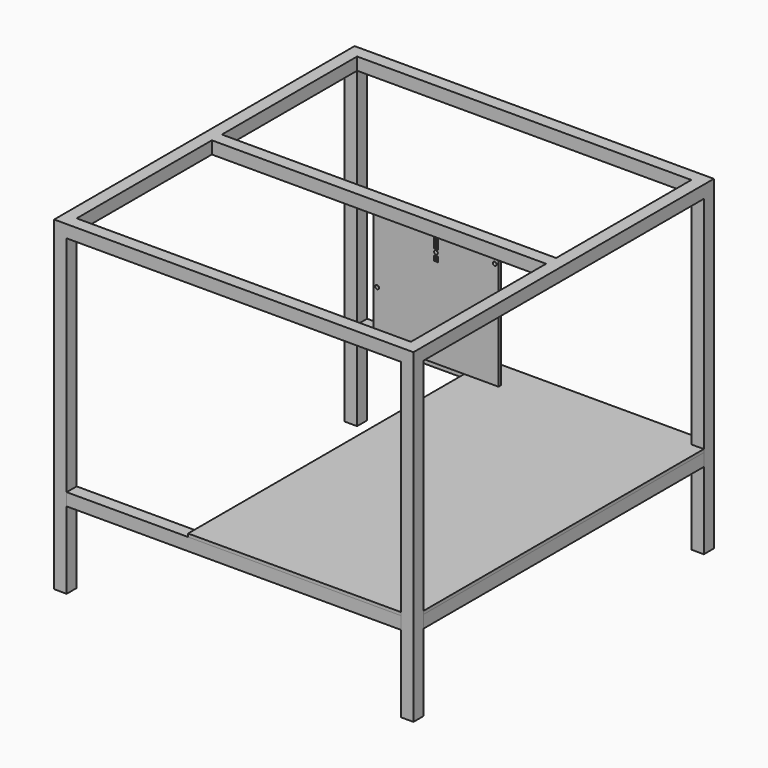
from build123d import *

# Parameters (mm, degrees)
F0_R      = 3
F0_W      = 2.1
F0_H      = 8
F1_DEPTH  = 5
F3_W      = 534
F3_H      = 20
F4_DEPTH  = 20
F5_W      = 20
F5_H      = 20
F6_DEPTH  = 500
F9_DEPTH  = 5
F10_W     = 534
F10_H     = 20
F10_W_2   = 20
F10_H_2   = 560
F11_DEPTH = 20


with BuildPart() as f1:
    # F0 (on Front) → F1 (new body)
    with BuildSketch(Plane.XZ):
        Polygon((-51, 171), (-51, -10), (149, -10), (149, 171), (52.05, 171), (52.05, 151), (49.95, 151), (49.95, 171), (48.05, 171), (48.05, 151), (45.95, 151), (45.95, 171), align=None)
        Circle(F0_R, mode=Mode.SUBTRACT)
        with Locations((-45, 67)):
            Circle(F0_R, mode=Mode.SUBTRACT)
        with Locations((47, 137.5)):
            Rectangle(F0_W, F0_H, mode=Mode.SUBTRACT)
        with Locations((51, 137.5)):
            Rectangle(F0_W, F0_H, mode=Mode.SUBTRACT)
        with Locations((49, 146.5)):
            Circle(F0_R, mode=Mode.SUBTRACT)
        with Locations((143, 161)):
            Circle(F0_R, mode=Mode.SUBTRACT)
    extrude(amount=F1_DEPTH)

    # F3 (on offset) → F4 (join)
    with BuildSketch(Plane.XY.offset(171)):
        Polygon((229, -300), (249, -300), (249, 300), (229, 300), (-305, 300), (-325, 300), (-325, -300), (-305, -300), align=None)
        Polygon((229, -10), (229, -280), (-305, -280), (-305, -10), (-305, 10), (-305, 280), (229, 280), (229, 10), align=None, mode=Mode.SUBTRACT)
        with Locations((-38, 0)):
            Rectangle(F3_W, F3_H)
    extrude(amount=F4_DEPTH)

    # F5 (on face) → F6 (join)
    with BuildSketch(Plane(origin=(0, 0, 171), x_dir=(1, 0, 0), z_dir=(0, 0, -1))):
        with Locations((-315, 290)):
            Rectangle(F5_W, F5_H)
        with Locations((-315, -290)):
            Rectangle(F5_W, F5_H)
        with Locations((239, -290)):
            Rectangle(F5_W, F5_H)
        with Locations((239, 290)):
            Rectangle(F5_W, F5_H)
    extrude(amount=F6_DEPTH)


with BuildPart() as f9:
    # F8 (on offset) → F9 (new body)
    with BuildSketch(Plane.XY.offset(-186)):
        Polygon((229, 280), (229, 300), (-111, 300), (-111, -300), (229, -300), (229, -280), (249, -280), (249, 280), align=None)
    extrude(amount=F9_DEPTH)


with BuildPart() as f11:
    # F10 (on face) → F11 (new body)
    with BuildSketch(Plane(origin=(0, 0, -186), x_dir=(1, 0, 0), z_dir=(0, 0, -1))):
        with Locations((-38, -290)):
            Rectangle(F10_W, F10_H)
        with Locations((239, 0)):
            Rectangle(F10_W_2, F10_H_2)
        with Locations((-38, 290)):
            Rectangle(F10_W, F10_H)
    extrude(amount=F11_DEPTH)


solid = Compound([f1.part, f9.part, f11.part])
